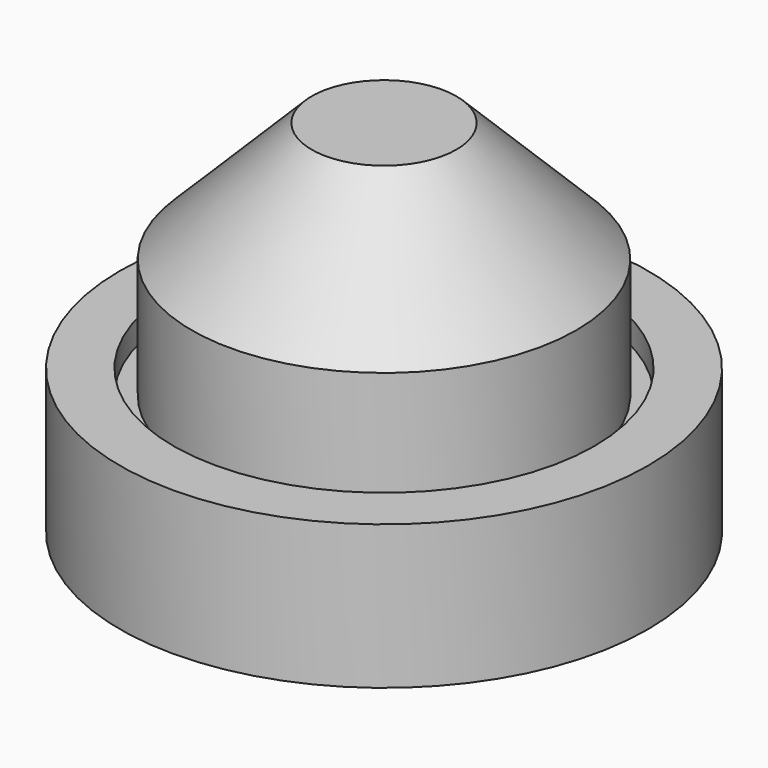
from build123d import *

# Parameters (mm, degrees)
F0_R     = 55.878633
F1_DEPTH = 25.4
F2_R     = 55.878633
F2_R_2   = 44.572454
F4_DEPTH = 5.08
F3_R     = 40.718118
F5_DEPTH = 50.8
F6_SIZE  = 25.4


with BuildPart() as f1:
    # F0 (on Top) → F1 (new body)
    with BuildSketch(Plane.XY):
        Circle(F0_R)
    extrude(amount=F1_DEPTH)

    # F2 (on face) → F4 (join)
    with BuildSketch(Plane.XY.offset(25.4)):
        Circle(F2_R)
        Circle(F2_R_2, mode=Mode.SUBTRACT)
    extrude(amount=F4_DEPTH)

    # F3 (on face) → F5 (join)
    with BuildSketch(Plane.XY.offset(25.4)):
        Circle(F3_R)
    extrude(amount=F5_DEPTH)

    # F6
    f6_edges = [f1.edges().sort_by_distance(p)[0] for p in [
        (-40.718118, 0, 76.2),
    ]]
    chamfer(f6_edges, length=F6_SIZE)


solid = f1.part
